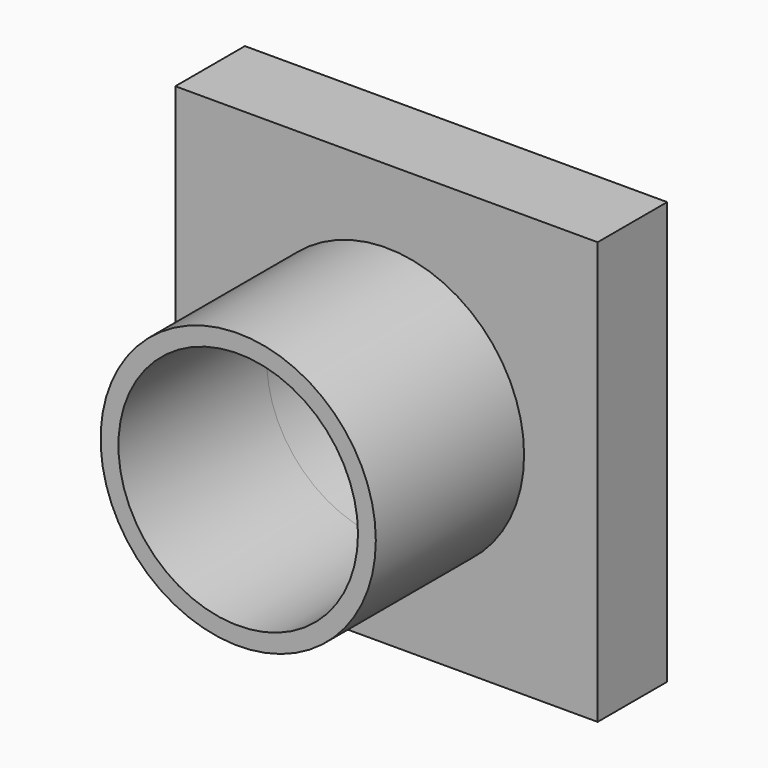
from build123d import *

# Parameters (mm, degrees)
F0_R     = 9.290534
F1_DEPTH = 6.731
F2_R     = 10.655323
F2_R_2   = 9.275997
F3_DEPTH = 14.351


with BuildPart() as f1:
    # F0 (on Front) → F1 (new body)
    with BuildSketch(Plane.XZ):
        Polygon((-16.349375, 16.349375), (-16.349375, 0), (-16.349375, -16.349375), (0, -16.349375), (16.349375, -16.349375), (16.349375, 0), (16.349375, 16.349375), (0, 16.349375), align=None)
        Circle(F0_R, mode=Mode.SUBTRACT)
        Polygon((-16.349375, 16.349375), (-16.349375, 0), (-16.349375, -16.349375), (0, -16.349375), (16.349375, -16.349375), (16.349375, 0), (16.349375, 16.349375), (0, 16.349375), align=None)
        Circle(F0_R, mode=Mode.SUBTRACT)
    extrude(amount=F1_DEPTH)

    # F2 (on face) → F3 (join)
    with BuildSketch(Plane.XZ.offset(6.731)):
        Circle(F2_R)
        Circle(F2_R_2, mode=Mode.SUBTRACT)
    extrude(amount=F3_DEPTH)


solid = f1.part
